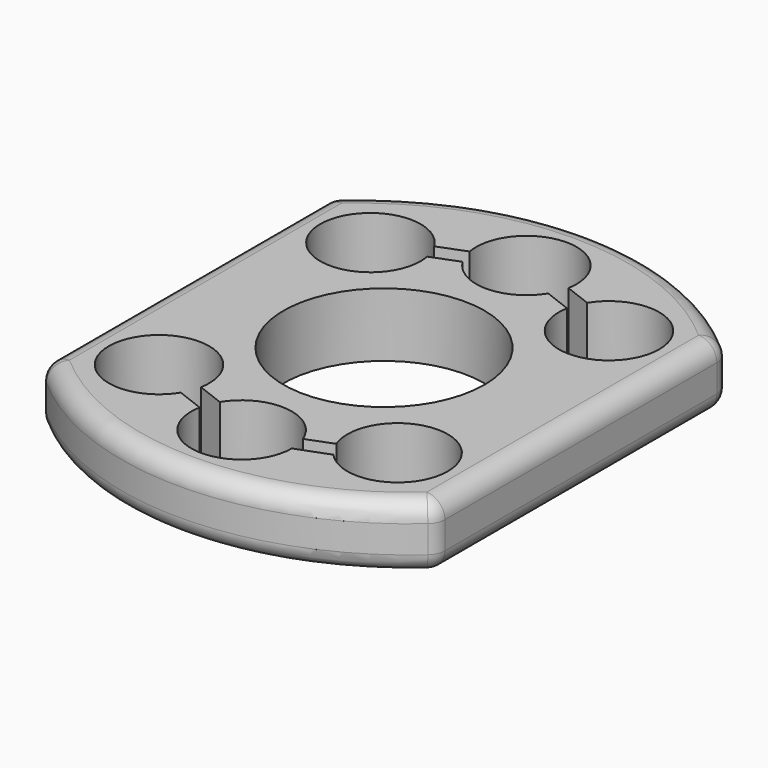
from build123d import *

# Parameters (mm, degrees)
F0_R     = 11
F1_DEPTH = 7
F2_R     = 2


with BuildPart() as f1:
    # F0 (on Top) → F1 (new body)
    with BuildSketch(Plane.XY):
        with BuildLine():
            ThreePointArc((21.566864, 19.5), (0, 28), (-21.566864, 19.5))
            Line((-21.566864, 19.5), (-21.566864, -19.5))
            ThreePointArc((-21.566864, -19.5), (0, -28), (21.566864, -19.5))
            Line((21.566864, -19.5), (21.566864, 19.5))
        make_face()
        with BuildLine():
            ThreePointArc((-8.37799, -17.349157), (-18.3602, -12.98084), (-7.566864, -14.474359))
            ThreePointArc((-7.566864, -14.474359), (-7.590208, -14.980559), (-7.660042, -15.482462))
            Line((-7.660042, -15.482462), (-4.688874, -16.625202))
            ThreePointArc((-4.688874, -16.625202), (0.502097, -14.022966), (5.133411, -17.525641))
            Line((5.133411, -17.525641), (7.933453, -16.448718))
            ThreePointArc((7.933453, -16.448718), (12.062812, -9.066783), (18.566864, -14.474359))
            ThreePointArc((18.566864, -14.474359), (15.05405, -19.602818), (9.00283, -18.18025))
            Line((9.00283, -18.18025), (5.5, -19.5))
            ThreePointArc((5.5, -19.5), (-0.5062, -24.976656), (-5.406822, -18.491897))
            Line((-5.406822, -18.491897), (-8.37799, -17.349157))
        make_face(mode=Mode.SUBTRACT)
        Circle(F0_R, mode=Mode.SUBTRACT)
        with BuildLine():
            ThreePointArc((8.37799, 17.349157), (14.560382, 19.767695), (18.566864, 14.474359))
            ThreePointArc((18.566864, 14.474359), (12.560664, 8.997703), (7.660042, 15.482462))
            Line((7.660042, 15.482462), (4.688874, 16.625202))
            ThreePointArc((4.688874, 16.625202), (0, 14), (-4.688874, 16.625202))
            Line((-4.688874, 16.625202), (-7.660042, 15.482462))
            ThreePointArc((-7.660042, 15.482462), (-7.590208, 14.980559), (-7.566864, 14.474359))
            ThreePointArc((-7.566864, 14.474359), (-18.3602, 12.98084), (-8.37799, 17.349157))
            Line((-8.37799, 17.349157), (-5.406822, 18.491897))
            ThreePointArc((-5.406822, 18.491897), (-0.5062, 24.976656), (5.5, 19.5))
            ThreePointArc((5.5, 19.5), (5.476656, 18.9938), (5.406822, 18.491897))
            Line((5.406822, 18.491897), (8.37799, 17.349157))
        make_face(mode=Mode.SUBTRACT)
    extrude(amount=F1_DEPTH)

    # F2
    f2_edges = [f1.edges().sort_by_distance(p)[0] for p in [
        (21.566864, 19.5, 3.5),
        (-21.566864, 19.5, 3.5),
        (0, 28, 0),
        (0, 28, 7),
        (-21.566864, -19.5, 3.5),
        (-21.566864, 0, 0),
        (-21.566864, 0, 7),
        (21.566864, -19.5, 3.5),
        (0, -28, 0),
        (0, -28, 7),
        (21.566864, 0, 0),
        (21.566864, 0, 7),
    ]]
    fillet(f2_edges, radius=F2_R)


solid = f1.part
